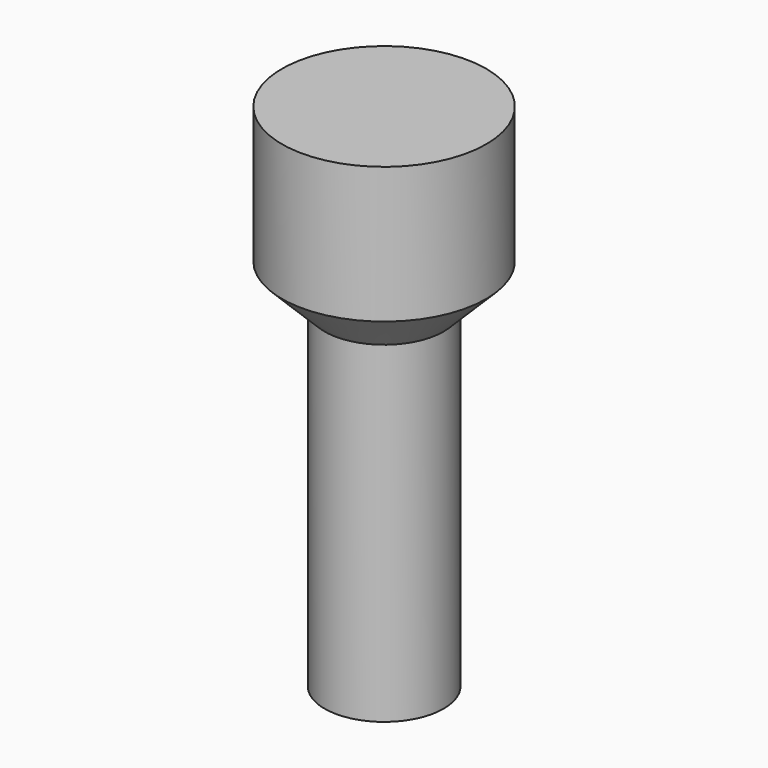
from build123d import *

# Parameters (mm, degrees)
CYLINDER_R        = 1.75
CYLINDER_DEPTH    = 10
CYLINDER001_R     = 3
CYLINDER001_DEPTH = 4


with BuildPart() as screw_cone:
    # Cone → Cone (revolve)
    with BuildSketch(Plane(origin=(0, 0, 9), x_dir=(1, 0, 0), z_dir=(0, -1, 0))):
        Polygon((0, 0), (1, 0), (3, 2), (0, 2), align=None)
    revolve(axis=Axis((0, 0, 9), (0, 0, 1)))


with BuildPart() as screw_cylinder:
    # Cylinder → Cylinder (new body)
    with BuildSketch(Plane.XY):
        Circle(CYLINDER_R)
    extrude(amount=CYLINDER_DEPTH)


with BuildPart() as screw_fusion:
    # Cylinder001 → Cylinder001 (new body)
    with BuildSketch(Plane.XY.offset(11)):
        Circle(CYLINDER001_R)
    extrude(amount=CYLINDER001_DEPTH)

    # Fusion: union screw-cone, screw-cylinder
    add(screw_cone.part)
    add(screw_cylinder.part)


solid = screw_fusion.part
